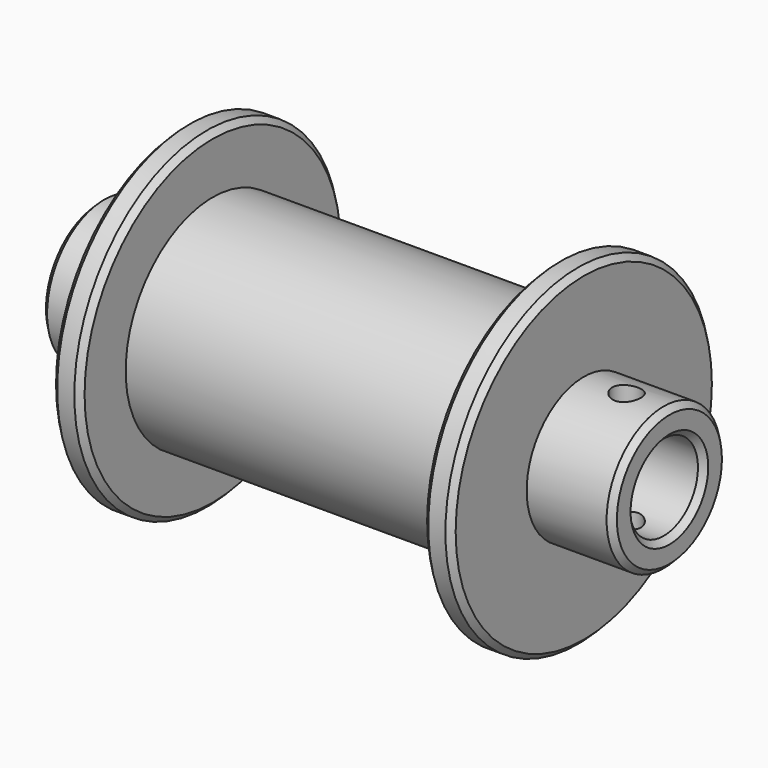
from build123d import *

# Parameters (mm, degrees)
F0_R     = 19.05
F0_R_2   = 7.5
F1_DEPTH = 30
F2_R     = 29.05
F2_R_2   = 7.5
F3_DEPTH = 5
F4_R     = 12.5
F4_R_2   = 7.5
F5_DEPTH = 15
F6_SIZE  = 1
F7_R     = 2.5
F8_DEPTH = 25


with BuildPart() as f1:
    # F0 (on Right) → F1 (new body, symmetric)
    with BuildSketch(Plane.YZ):
        Circle(F0_R)
        Circle(F0_R_2, mode=Mode.SUBTRACT)
    extrude(amount=F1_DEPTH, both=True)

    # F2 (on face) → F3 (join)
    with BuildSketch(Plane.YZ.offset(30)):
        Circle(F2_R)
        Circle(F2_R_2, mode=Mode.SUBTRACT)
    extrude(amount=F3_DEPTH)

    # F4 (on face) → F5 (join)
    with BuildSketch(Plane.YZ.offset(35)):
        Circle(F4_R)
        Circle(F4_R_2, mode=Mode.SUBTRACT)
    extrude(amount=F5_DEPTH)

    # F6
    f6_edges = [f1.edges().sort_by_distance(p)[0] for p in [
        (35, -29.05, 0),
        (30, -29.05, 0),
        (50, -12.5, 0),
        (50, -7.5, 0),
    ]]
    chamfer(f6_edges, length=F6_SIZE)

    # F7 (on Top) → F8 (cut, symmetric)
    with BuildSketch(Plane.XY):
        with Locations((42.5, 0)):
            Circle(F7_R)
    extrude(amount=F8_DEPTH, both=True, mode=Mode.SUBTRACT)

    # F9: F1 across plane


with BuildPart() as f1_1:
    add(f1.part)
    add(f1.part.mirror(Plane.YZ))


solid = f1_1.part
